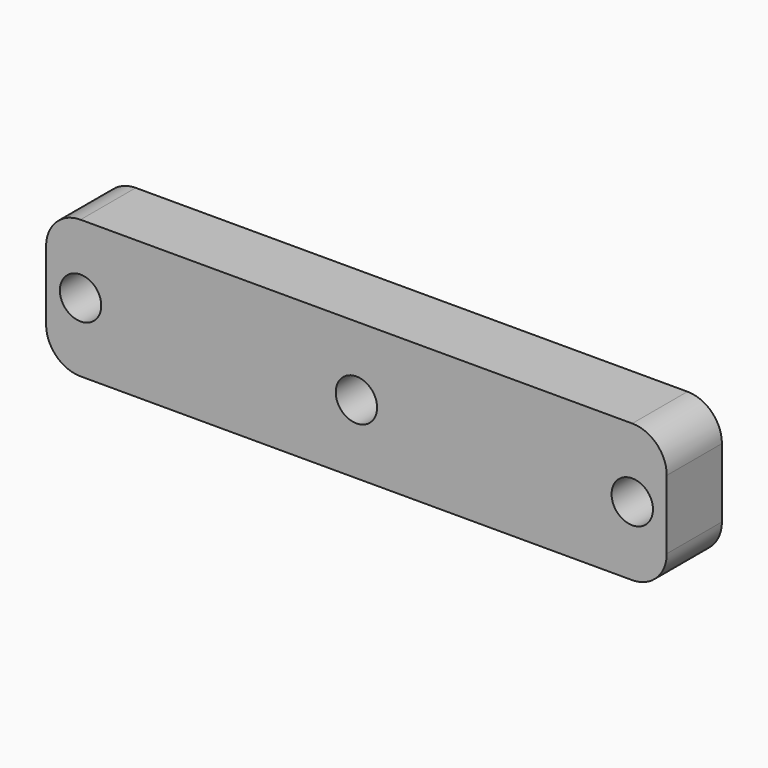
from build123d import *

# Parameters (mm, degrees)
F0_R     = 3.81
F1_DEPTH = 12.7


with BuildPart() as f1:
    # F0 (on Front) → F1 (new body)
    with BuildSketch(Plane.XZ):
        with BuildLine():
            Line((41.559414, 7.119696), (-60.040586, 7.119696))
            ThreePointArc((-60.040586, 7.119696), (-64.530714, 5.259824), (-66.390586, 0.769696))
            Line((-66.390586, 0.769696), (-66.390586, -11.930304))
            ThreePointArc((-66.390586, -11.930304), (-64.530714, -16.420432), (-60.040586, -18.280304))
            Line((-60.040586, -18.280304), (41.559414, -18.280304))
            ThreePointArc((41.559414, -18.280304), (46.049542, -16.420432), (47.909414, -11.930304))
            Line((47.909414, -11.930304), (47.909414, 0.769696))
            ThreePointArc((47.909414, 0.769696), (46.049542, 5.259824), (41.559414, 7.119696))
        make_face()
        with Locations((-60.040586, -5.580304)):
            Circle(F0_R, mode=Mode.SUBTRACT)
        with Locations((-9.240586, -5.580304)):
            Circle(F0_R, mode=Mode.SUBTRACT)
        with Locations((41.559414, -5.580304)):
            Circle(F0_R, mode=Mode.SUBTRACT)
    extrude(amount=F1_DEPTH)


solid = f1.part
